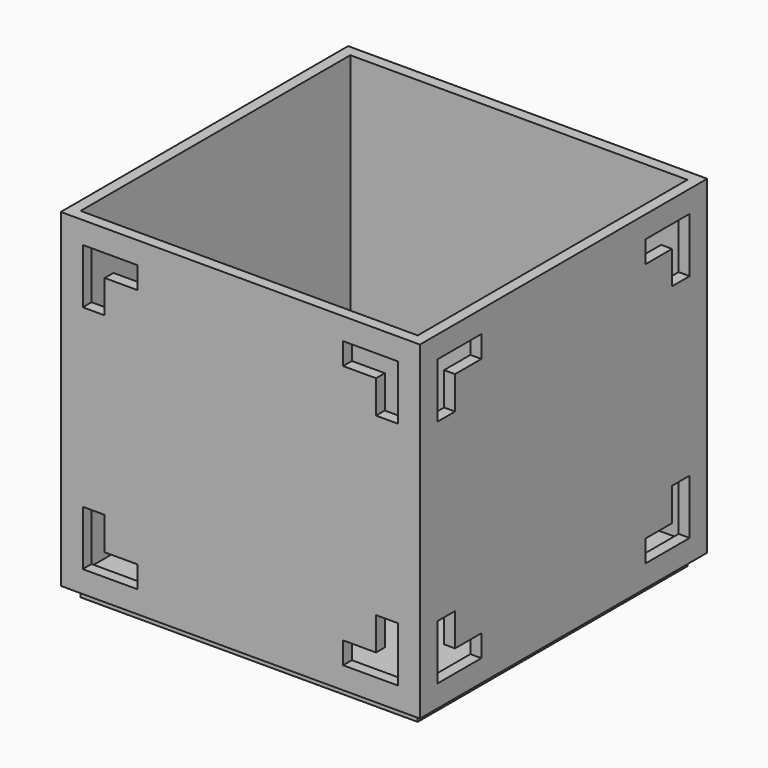
from build123d import *

# Parameters (mm, degrees)
F0_W      = 83.106392
F0_H      = 83.106392
F1_DEPTH  = 76.2
F2_T      = -2.54
F3_W      = 78.026392
F3_H      = 78.026392
F3_W_2    = 72.946392
F3_H_2    = 72.946392
F4_DEPTH  = 2.54
F8_DEPTH  = 2.54
F9_DEPTH  = 25.4
F11_DEPTH = 2.54
F12_DEPTH = 25.4


with BuildPart() as f1:
    # F0 (on Top) → F1 (new body)
    with BuildSketch(Plane.XY):
        Rectangle(F0_W, F0_H)
    extrude(amount=F1_DEPTH)

    # F2
    f2_openings = [f1.faces().sort_by_distance(p)[0] for p in [
        (0, 0, 76.2),
    ]]
    offset(amount=F2_T, openings=f2_openings)

    # F3 (on face) → F4 (join)
    with BuildSketch(Plane(origin=(0, 0, 0), x_dir=(1, 0, 0), z_dir=(0, 0, -1))):
        Rectangle(F3_W, F3_H)
        Rectangle(F3_W_2, F3_H_2, mode=Mode.SUBTRACT)
    extrude(amount=F4_DEPTH)

    # F5 (on face) → F8 (join)
    with BuildSketch(Plane(origin=(-41.553196, 0, 0), x_dir=(0, -1, 0), z_dir=(-1, 0, 0))):
        Polygon((-23.773196, 71.12), (-36.473196, 71.12), (-36.473196, 58.42), (-31.393196, 58.42), (-31.393196, 66.04), (-23.773196, 66.04), align=None)
        Polygon((36.473196, 58.42), (36.473196, 71.12), (23.773196, 71.12), (23.773196, 66.04), (31.393196, 66.04), (31.393196, 58.42), align=None)
        Polygon((36.473196, 17.78), (31.393196, 17.78), (31.393196, 10.16), (23.773196, 10.16), (23.773196, 5.08), (36.473196, 5.08), align=None)
        Polygon((-36.473196, 17.78), (-36.473196, 5.08), (-23.773196, 5.08), (-23.773196, 10.16), (-31.393196, 10.16), (-31.393196, 17.78), align=None)
    extrude(amount=F8_DEPTH)

    # F7 (on face) → F9 (cut)
    with BuildSketch(Plane.YZ.offset(41.553196)):
        Polygon((-23.773196, 71.12), (-36.473196, 71.12), (-36.473196, 58.42), (-31.393196, 58.42), (-31.393196, 66.04), (-23.773196, 66.04), align=None)
        Polygon((36.473196, 58.42), (36.473196, 71.12), (23.773196, 71.12), (23.773196, 66.04), (31.393196, 66.04), (31.393196, 58.42), align=None)
        Polygon((23.773196, 5.08), (36.473196, 5.08), (36.473196, 17.78), (31.393196, 17.78), (31.393196, 10.16), (23.773196, 10.16), align=None)
        Polygon((-36.473196, 17.78), (-36.473196, 5.08), (-23.773196, 5.08), (-23.773196, 10.16), (-31.393196, 10.16), (-31.393196, 17.78), align=None)
    extrude(amount=-F9_DEPTH, mode=Mode.SUBTRACT)

    # F10 (on face) → F11 (join)
    with BuildSketch(Plane(origin=(0, 41.553196, 0), x_dir=(-1, 0, 0), z_dir=(0, 1, 0))):
        Polygon((36.473196, 58.42), (36.473196, 71.12), (23.773196, 71.12), (23.773196, 66.04), (31.393196, 66.04), (31.393196, 58.42), align=None)
        Polygon((23.773196, 5.08), (36.473196, 5.08), (36.473196, 17.78), (31.393196, 17.78), (31.393196, 10.16), (23.773196, 10.16), align=None)
        Polygon((-36.473196, 17.78), (-36.473196, 5.08), (-23.773196, 5.08), (-23.773196, 10.16), (-31.393196, 10.16), (-31.393196, 17.78), align=None)
        Polygon((-23.773196, 71.12), (-36.473196, 71.12), (-36.473196, 58.42), (-31.393196, 58.42), (-31.393196, 66.04), (-23.773196, 66.04), align=None)
    extrude(amount=F11_DEPTH)

    # F6 (on face) → F12 (cut)
    with BuildSketch(Plane.XZ.offset(41.553196)):
        Polygon((-23.773196, 71.12), (-36.473196, 71.12), (-36.473196, 58.42), (-31.393196, 58.42), (-31.393196, 66.04), (-23.773196, 66.04), align=None)
        Polygon((-36.473196, 17.78), (-36.473196, 5.08), (-23.773196, 5.08), (-23.773196, 10.16), (-31.393196, 10.16), (-31.393196, 17.78), align=None)
        Polygon((23.773196, 5.08), (36.473196, 5.08), (36.473196, 17.78), (31.393196, 17.78), (31.393196, 10.16), (23.773196, 10.16), align=None)
        Polygon((36.473196, 58.42), (36.473196, 71.12), (23.773196, 71.12), (23.773196, 66.04), (31.393196, 66.04), (31.393196, 58.42), align=None)
    extrude(amount=-F12_DEPTH, mode=Mode.SUBTRACT)


solid = f1.part
